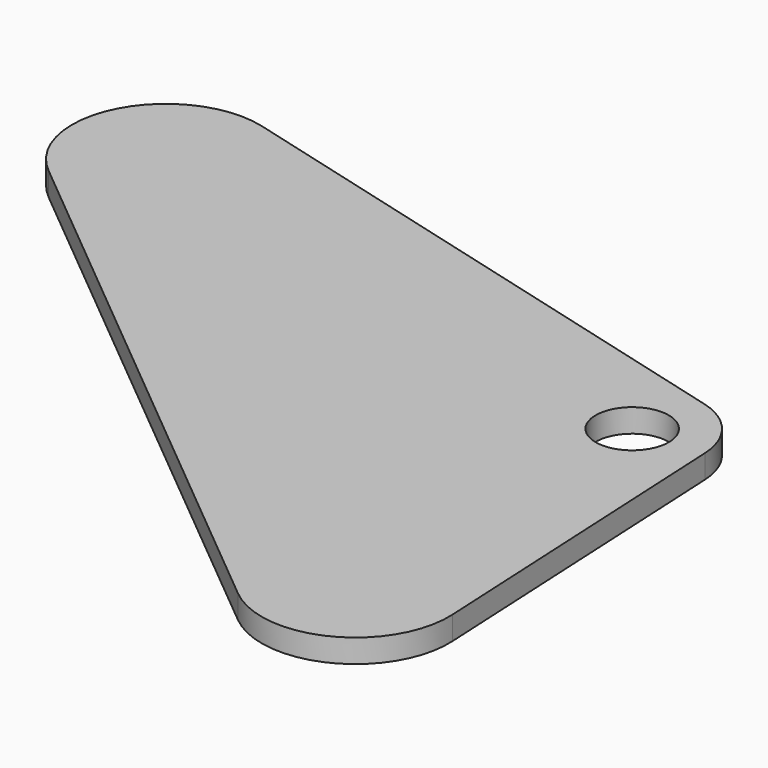
from build123d import *

# Parameters (mm, degrees)
SKETCH_R  = 6.25
PAD_DEPTH = 4


with BuildPart() as part:
    # Sketch → Pad (new body)
    with BuildSketch(Plane.XY):
        with BuildLine():
            ThreePointArc((-93.224272, 37.433574), (-111.583346, 29.327163), (-107.580303, 9.661326))
            Line((-107.580303, 9.661326), (-11.350303, -70.098674))
            ThreePointArc((-11.350303, -70.098674), (6.022276, -72.087404), (14.840368, -56.987643))
            Line((11.985276, 0.594268), (14.840368, -56.987643))
            ThreePointArc((11.985276, 0.594268), (9.337508, 7.537304), (3.109296, 11.59018))
            Line((-93.224272, 37.433574), (3.109296, 11.59018))
        make_face()
        Circle(SKETCH_R, mode=Mode.SUBTRACT)
    extrude(amount=PAD_DEPTH)


solid = part.part
